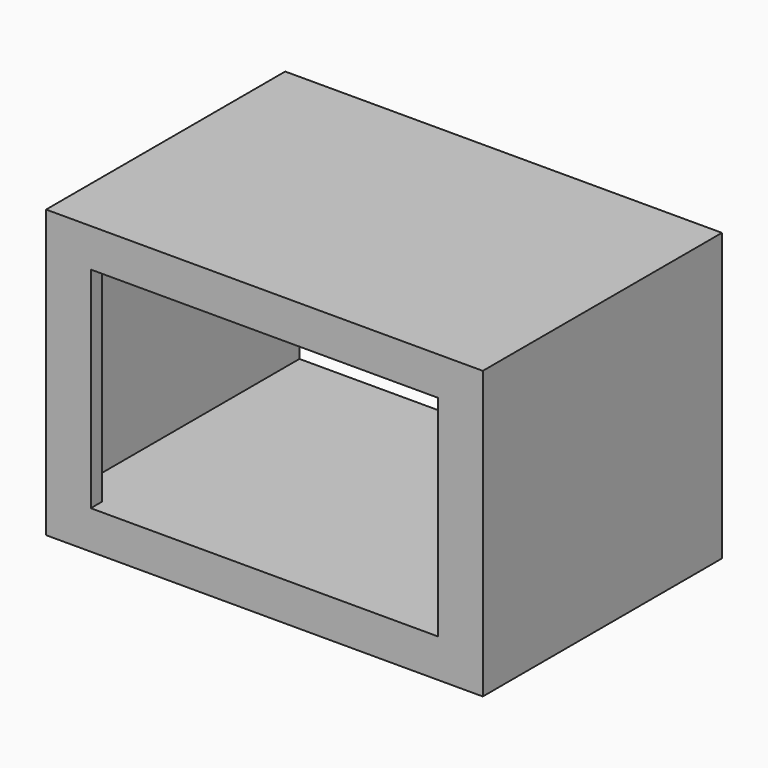
from build123d import *

# Parameters (mm, degrees)
F0_W     = 767.000556
F0_H     = 503.5187
F0_W_2   = 610
F0_H_2   = 369
F1_DEPTH = 25
F2_W     = 767.000556
F2_H     = 503.5187
F3_DEPTH = 500


with BuildPart() as f1:
    # F0 (on Front) → F1 (new body)
    with BuildSketch(Plane.XZ):
        Rectangle(F0_W, F0_H)
        Rectangle(F0_W_2, F0_H_2, mode=Mode.SUBTRACT)
    extrude(amount=-F1_DEPTH)

    # F2 (on face) → F3 (join)
    with BuildSketch(Plane(origin=(0, 25, 0), x_dir=(-1, 0, 0), z_dir=(0, 1, 0))):
        Rectangle(F2_W, F2_H)
        Polygon((-358.500278, -184.5), (-358.500278, 226.75935), (358.500278, 226.75935), (358.500278, -184.5), (305, -184.5), (-305, -184.5), align=None, mode=Mode.SUBTRACT)
    extrude(amount=F3_DEPTH)


solid = f1.part
